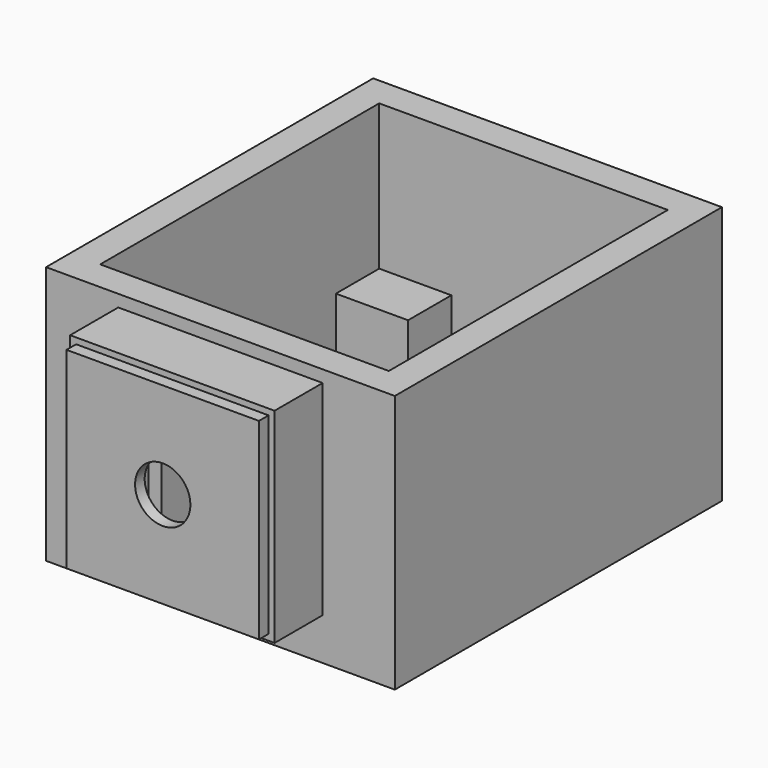
from build123d import *

# Parameters (mm, degrees)
F0_W     = 15.24
F0_H     = 11.43
F1_DEPTH = 17.526
F0_W_2   = 12.192
F0_H_2   = 11.176
F0_W_3   = 12.954
F0_H_3   = 25.4
F0_W_4   = 73.66
F0_H_4   = 86.36
F2_DEPTH = 48.26
F3_DEPTH = 6.35
F4_W     = 40.64
F4_H     = 40.64
F5_DEPTH = 6.3754
F6_W     = 43.18
F6_H     = 43.18
F6_W_2   = 40.64
F6_H_2   = 40.64
F7_DEPTH = 12.7
F8_W     = 40.64
F8_H     = 40.64
F8_R     = 5.842
F9_DEPTH = 2.54


with BuildPart() as f1:
    # F0 (on Top) → F1 (new body)
    with BuildSketch(Plane.XY):
        with Locations((7.62, 67.945)):
            Rectangle(F0_W, F0_H)
    extrude(amount=F1_DEPTH)



with BuildPart() as f1b:
    # F0 (on Top) → F1, piece 2 (new body)
    with BuildSketch(Plane.XY):
        with Locations((54.864, 68.072)):
            Rectangle(F0_W_2, F0_H_2)
    extrude(amount=F1_DEPTH)


with BuildPart() as f1c:
    # F0 (on Top) → F1, piece 3 (new body)
    with BuildSketch(Plane.XY):
        with Locations((54.483, 12.7)):
            Rectangle(F0_W_3, F0_H_3)
    extrude(amount=F1_DEPTH)


with BuildPart() as f1d:
    # F0 (on Top) → F1, piece 4 (new body)
    with BuildSketch(Plane.XY):
        with Locations((6.477, 12.7)):
            Rectangle(F0_W_3, F0_H_3)
    extrude(amount=F1_DEPTH)


with BuildPart() as f2:
    # F0 (on Top) → F2 (new body)
    with BuildSketch(Plane.XY):
        with Locations((30.48, 36.83)):
            Rectangle(F0_W_4, F0_H_4)
        Polygon((12.954, 0), (0, 0), (0, 25.4), (0, 62.23), (0, 73.66), (15.24, 73.66), (48.768, 73.66), (60.96, 73.66), (60.96, 62.484), (60.96, 25.4), (60.96, 0), (48.006, 0), align=None, mode=Mode.SUBTRACT)
    extrude(amount=F2_DEPTH)

    # F4 (on face) → F5 (cut)
    with BuildSketch(Plane.XZ.offset(6.35)):
        with Locations((30.48, 24.13)):
            Rectangle(F4_W, F4_H)
    extrude(amount=-F5_DEPTH, mode=Mode.SUBTRACT)


with BuildPart() as f3:
    # F0 (on Top) → F3 (new body)
    with BuildSketch(Plane.XY):
        with Locations((30.48, 36.83)):
            Rectangle(F0_W_4, F0_H_4)
        Polygon((12.954, 0), (0, 0), (0, 25.4), (0, 62.23), (0, 73.66), (15.24, 73.66), (48.768, 73.66), (60.96, 73.66), (60.96, 62.484), (60.96, 25.4), (60.96, 0), (48.006, 0), align=None, mode=Mode.SUBTRACT)
        Polygon((12.954, 25.4), (12.954, 0), (48.006, 0), (48.006, 25.4), (60.96, 25.4), (60.96, 62.484), (48.768, 62.484), (48.768, 73.66), (15.24, 73.66), (15.24, 62.23), (0, 62.23), (0, 25.4), align=None)
        with Locations((6.477, 12.7)):
            Rectangle(F0_W_3, F0_H_3)
        with Locations((54.483, 12.7)):
            Rectangle(F0_W_3, F0_H_3)
        with Locations((7.62, 67.945)):
            Rectangle(F0_W, F0_H)
        with Locations((54.864, 68.072)):
            Rectangle(F0_W_2, F0_H_2)
    extrude(amount=-F3_DEPTH)


with BuildPart() as f1_1:
    add(f1.part)

    add(f1b.part)  # F7 merges F1b

    add(f1c.part)  # F7 merges F1c

    add(f1d.part)  # F7 merges F1d

    add(f2.part)  # F7 merges F2

    add(f3.part)  # F7 merges F3
    # F6 (on face) → F7 (join)
    with BuildSketch(Plane.XZ.offset(6.35)):
        with Locations((30.48, 24.13)):
            Rectangle(F6_W, F6_H)
        with Locations((30.48, 24.13)):
            Rectangle(F6_W_2, F6_H_2, mode=Mode.SUBTRACT)
    extrude(amount=F7_DEPTH)


with BuildPart() as f9:
    # F8 (on face) → F9 (new body)
    with BuildSketch(Plane.XZ.offset(19.05)):
        with Locations((30.48, 24.13)):
            Rectangle(F8_W, F8_H)
        with Locations((30.48, 24.13)):
            Circle(F8_R, mode=Mode.SUBTRACT)
    extrude(amount=F9_DEPTH)


solid = Compound([f1_1.part, f9.part])
